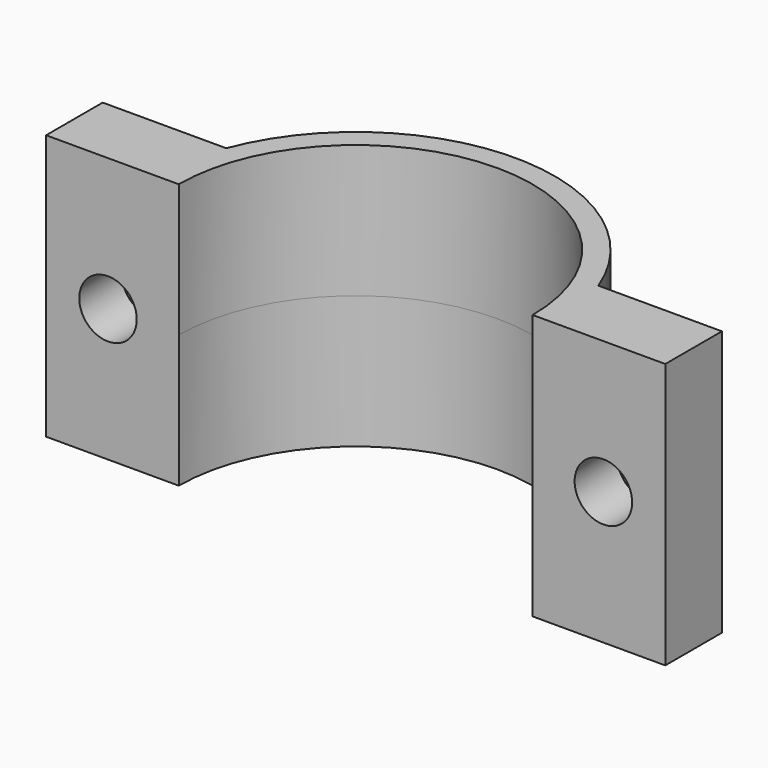
from build123d import *

# Parameters (mm, degrees)
SKETCH067_R          = 22.5
PAD023_DEPTH         = 15
SKETCH073_W          = 45
SKETCH073_H          = 22.5
POCKET041_DEPTH      = 15.001
POCKET041_DEPTH_BACK = 15.001
SKETCH072_W          = 70
SKETCH072_H          = 8
PAD025_DEPTH         = 15
SKETCH069_R          = 20
POCKET042_DEPTH      = 15.001
POCKET042_DEPTH_BACK = 15.001
SKETCH074_R          = 3.25
POCKET043_DEPTH      = 22.501
SKETCH075_R          = 4.75
POCKET047_DEPTH      = 2


with BuildPart() as part:
    # Sketch067 → Pad023 (new body, symmetric)
    with BuildSketch(Plane.XY):
        Circle(SKETCH067_R)
    extrude(amount=PAD023_DEPTH, both=True)

    # Sketch073 → Pocket041 (cut, two sides)
    with BuildSketch(Plane.XY) as pocket041_sk:
        with Locations((0, -11.25)):
            Rectangle(SKETCH073_W, SKETCH073_H)
    extrude(amount=-POCKET041_DEPTH, mode=Mode.SUBTRACT)
    extrude(pocket041_sk.sketch, amount=POCKET041_DEPTH_BACK, mode=Mode.SUBTRACT)

    # Sketch072 → Pad025 (join, symmetric)
    with BuildSketch(Plane.XY):
        with Locations((0, 4)):
            Rectangle(SKETCH072_W, SKETCH072_H)
    extrude(amount=PAD025_DEPTH, both=True)

    # Sketch069 → Pocket042 (cut, two sides)
    with BuildSketch(Plane.XY) as pocket042_sk:
        Circle(SKETCH069_R)
    extrude(amount=-POCKET042_DEPTH, mode=Mode.SUBTRACT)
    extrude(pocket042_sk.sketch, amount=POCKET042_DEPTH_BACK, mode=Mode.SUBTRACT)

    # Sketch074 → Pocket043 (cut, through all)
    with BuildSketch(Plane.XZ):
        with Locations((28, 0)):
            Circle(SKETCH074_R)
        with Locations((-28, 0)):
            Circle(SKETCH074_R)
    extrude(amount=-POCKET043_DEPTH, mode=Mode.SUBTRACT)

    # Sketch075 (on Face13 of Pocket043) → Pocket047 (cut)
    with BuildSketch(Plane(origin=(0, 8, 0), x_dir=(-1, 0, 0), z_dir=(0, 1, 0))):
        with Locations((28, 0)):
            Circle(SKETCH075_R)
        with Locations((-28, 0)):
            Circle(SKETCH075_R)
    extrude(amount=-POCKET047_DEPTH, mode=Mode.SUBTRACT)


with BuildPart() as part_1:
    # Body010 placement: moved
    add(part.part.moved(Location((0, 0, -197.7))))


solid = part_1.part
